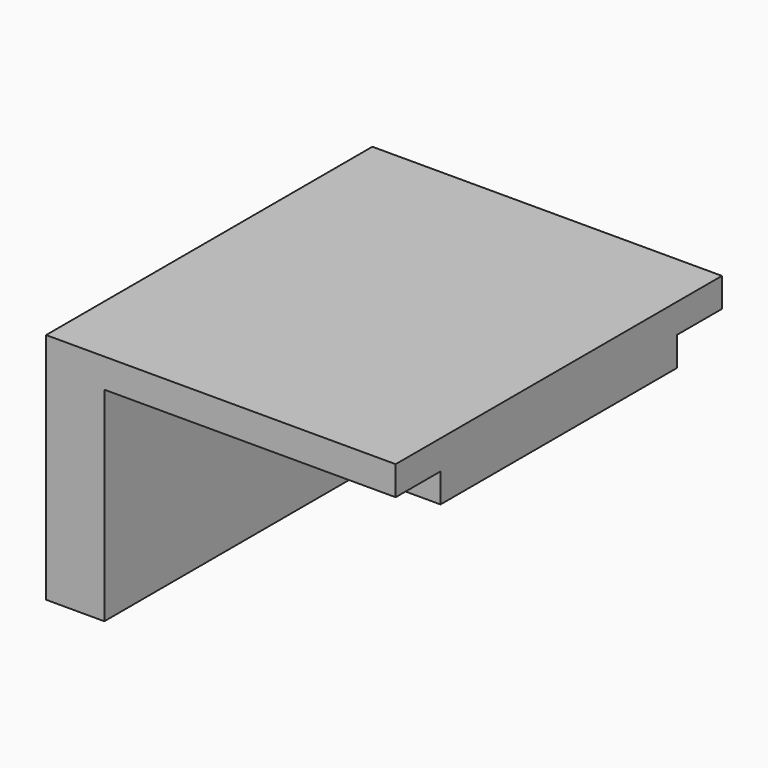
from build123d import *

# Parameters (mm, degrees)
F0_W     = 12.7
F0_H     = 3.0555259615
F0_H_2   = 3.0494434938
F1_DEPTH = 1.5875
F0_W_2   = 3.175
F0_H_3   = 22.225
F2_DEPTH = 12.7
F0_H_4   = 16.1200305447
F3_DEPTH = 3.175


with BuildPart() as f1:
    # F0 (on Top) → F1 (new body)
    with BuildSketch(Plane.XY):
        Polygon((-3.175, 8.0630565062), (-3.175, 11.1125), (-6.35, 11.1125), (-6.35, -11.1125), (-3.175, -11.1125), (-3.175, -8.0569740385), align=None)
        with Locations((3.175, -9.5847370192)):
            Rectangle(F0_W, F0_H)
        with Locations((3.175, 9.5877782531)):
            Rectangle(F0_W, F0_H_2)
    extrude(amount=-F1_DEPTH)

    # F0 (on Top) → F2 (join)
    with BuildSketch(Plane.XY):
        with Locations((-7.9375, 0)):
            Rectangle(F0_W_2, F0_H_3)
    extrude(amount=-F2_DEPTH)

    # F0 (on Top) → F3 (join)
    with BuildSketch(Plane.XY):
        with Locations((3.175, 0.0030412339)):
            Rectangle(F0_W, F0_H_4)
    extrude(amount=-F3_DEPTH)


solid = f1.part
